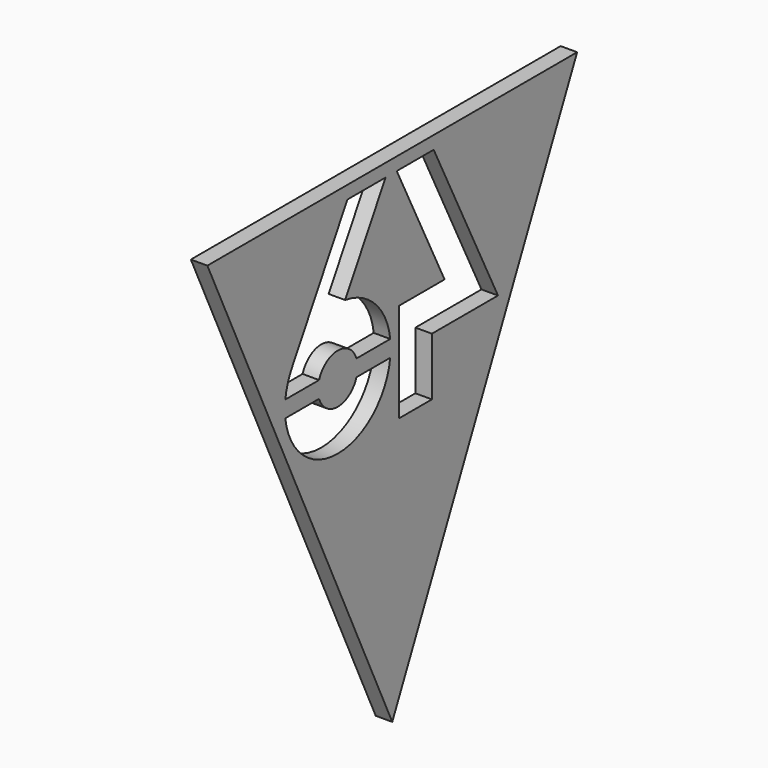
from build123d import *

# Parameters (mm, degrees)
F1_DEPTH = 2.54


with BuildPart() as f1:
    # F0 (on Right) → F1 (new body)
    with BuildSketch(Plane.YZ):
        Polygon((0, 0), (-35.532644, 0), (0, -76.2), align=None)
        with BuildLine():
            Line((-20.550144, -26.753266), (-14.061934, -26.753266))
            ThreePointArc((-14.061934, -26.753266), (-10.469832, -29.293266), (-6.877729, -26.753266))
            Line((-6.877729, -26.753266), (-0.389519, -26.753266))
            ThreePointArc((-0.389519, -26.753266), (-10.469832, -35.643266), (-20.550144, -26.753266))
        make_face(mode=Mode.SUBTRACT)
        with BuildLine():
            Line((-19.264794, -20.396594), (-8.621269, -1.993714))
            Line((-8.621269, -1.993714), (-1.285707, -1.993714))
            Line((-1.285707, -1.993714), (-9.052472, -15.422615))
            ThreePointArc((-9.052472, -15.422615), (-3.233258, -18.351814), (-0.389519, -24.213266))
            Line((-0.389519, -24.213266), (-6.877729, -24.213266))
            ThreePointArc((-6.877729, -24.213266), (-10.469832, -21.673266), (-14.061934, -24.213266))
            Line((-14.061934, -24.213266), (-20.550144, -24.213266))
            ThreePointArc((-20.550144, -24.213266), (-20.098474, -22.240605), (-19.264794, -20.396594))
        make_face(mode=Mode.SUBTRACT)
        Polygon((35.532644, 0), (0, 0), (0, -76.2), align=None)
        Polygon((0.862135, -1.993714), (7.959447, -1.993714), (20.32, -26.753266), (7.62, -26.753266), (7.62, -35.643266), (1.27, -35.643266), (1.27, -20.403266), (10.052618, -20.403266), align=None, mode=Mode.SUBTRACT)
    extrude(amount=-F1_DEPTH)


solid = f1.part
